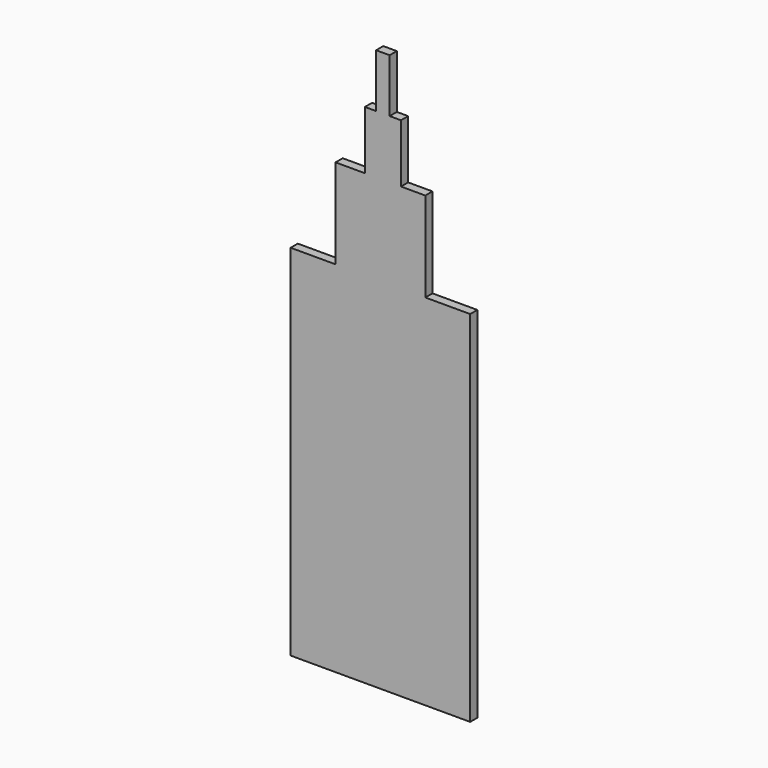
from build123d import *

# Parameters (mm, degrees)
F1_DEPTH = 50.8
F2_DEPTH = 50.8


with BuildPart() as f1:
    # F0 (on Front) → F1 (new body)
    with BuildSketch(Plane.XZ):
        Polygon((-5956.551552, 2950.701828), (-5956.551552, 918.701828), (-4940.551552, 918.701828), (-4940.551552, 1934.701828), (-4940.551552, 2471.261024), (-4940.551552, 2950.701828), (-5194.551552, 2950.701828), (-5194.551552, 3458.701828), (-5332.304001, 3458.701828), (-5332.304001, 3788.901828), (-5396.27409, 3788.901828), (-5396.27409, 4092.006207), (-5468.426704, 4092.006207), (-5473.082066, 4092.006207), (-5473.082066, 3788.901828), (-5536.37886, 3788.901828), (-5536.37886, 3458.701828), (-5702.551552, 3458.701828), (-5702.551552, 2950.701828), align=None)
    extrude(amount=F1_DEPTH)

    # F0 (on Front) → F2 (join)
    with BuildSketch(Plane.XZ):
        Polygon((-5956.551552, 2950.701828), (-5956.551552, 918.701828), (-4940.551552, 918.701828), (-4940.551552, 1934.701828), (-4940.551552, 2471.261024), (-4940.551552, 2950.701828), (-5194.551552, 2950.701828), (-5194.551552, 3458.701828), (-5332.304001, 3458.701828), (-5332.304001, 3788.901828), (-5396.27409, 3788.901828), (-5396.27409, 4092.006207), (-5468.426704, 4092.006207), (-5473.082066, 4092.006207), (-5473.082066, 3788.901828), (-5536.37886, 3788.901828), (-5536.37886, 3458.701828), (-5702.551552, 3458.701828), (-5702.551552, 2950.701828), align=None)
    extrude(amount=F2_DEPTH)


solid = f1.part
